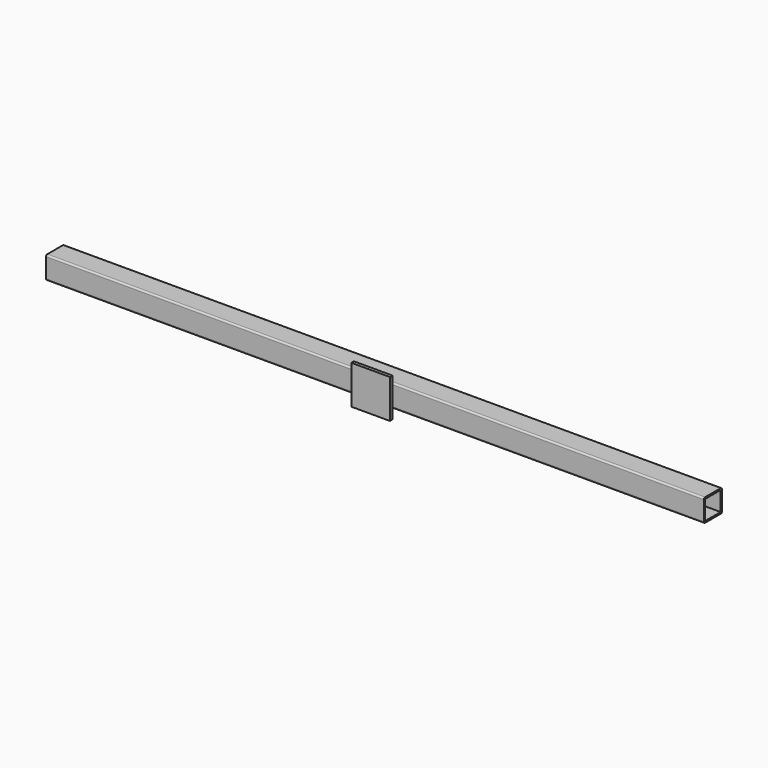
from build123d import *

# Parameters (mm, degrees)
F0_W     = 152.4
F0_H     = 152.4
F1_DEPTH = 2590.8
F2_W     = 304.8
F2_H     = 304.8
F3_DEPTH = 25.4


with BuildPart() as f1:
    # F0 (on Right) → F1 (new body, symmetric)
    with BuildSketch(Plane.YZ):
        with BuildLine():
            Line((76.2, 88.9), (-76.2, 88.9))
            ThreePointArc((-76.2, 88.9), (-85.180256, 85.180256), (-88.9, 76.2))
            Line((-88.9, 76.2), (-88.9, -76.2))
            ThreePointArc((-88.9, -76.2), (-85.180256, -85.180256), (-76.2, -88.9))
            Line((-76.2, -88.9), (76.2, -88.9))
            ThreePointArc((76.2, -88.9), (85.180256, -85.180256), (88.9, -76.2))
            Line((88.9, -76.2), (88.9, 76.2))
            ThreePointArc((88.9, 76.2), (85.180256, 85.180256), (76.2, 88.9))
        make_face()
        Rectangle(F0_W, F0_H, mode=Mode.SUBTRACT)
    extrude(amount=F1_DEPTH, both=True)

    # F2 (on face) → F3 (join)
    with BuildSketch(Plane.XZ.offset(88.9)):
        with Locations((-14.097348, -12.7)):
            Rectangle(F2_W, F2_H)
    extrude(amount=F3_DEPTH)


solid = f1.part
